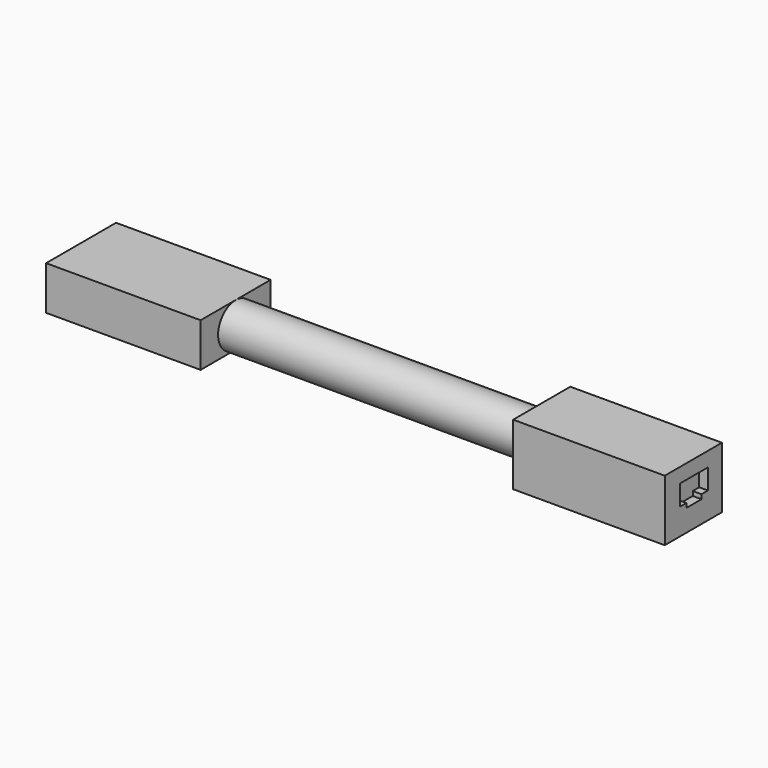
from build123d import *

# Parameters (mm, degrees)
F0_W     = 24.5
F0_H     = 21
F1_DEPTH = 52
F2_R     = 7.5
F3_DEPTH = 105
F4_W     = 30
F4_H     = 15
F5_DEPTH = 53
F6_DEPTH = 3


with BuildPart() as f1:
    # F0 (on Right) → F1 (new body)
    with BuildSketch(Plane.YZ):
        Rectangle(F0_W, F0_H)
        Polygon((-3, -1.5), (-5.75, -1.5), (-5.75, 5.5), (6.25, 5.5), (6.25, -1.5), (3.5, -1.5), (3.5, -3), (-3, -3), align=None, mode=Mode.SUBTRACT)
        Polygon((-5.75, 5.5), (-5.75, -1.5), (-3, -1.5), (-3, -3), (3.5, -3), (3.5, -1.5), (6.25, -1.5), (6.25, 5.5), align=None)
    extrude(amount=-F1_DEPTH)

    # F2 (on face) → F3 (join)
    with BuildSketch(Plane(origin=(-52, 0, 0), x_dir=(0, -1, 0), z_dir=(-1, 0, 0))):
        Circle(F2_R)
    extrude(amount=F3_DEPTH)

    # F4 (on face) → F5 (join)
    with BuildSketch(Plane(origin=(-157, 0, 0), x_dir=(0, -1, 0), z_dir=(-1, 0, 0))):
        Rectangle(F4_W, F4_H)
    extrude(amount=F5_DEPTH)

    # F0 (on Right) → F6 (cut)
    with BuildSketch(Plane.YZ):
        Polygon((-5.75, 5.5), (-5.75, -1.5), (-3, -1.5), (-3, -3), (3.5, -3), (3.5, -1.5), (6.25, -1.5), (6.25, 5.5), align=None)
    extrude(amount=-F6_DEPTH, mode=Mode.SUBTRACT)


solid = f1.part
